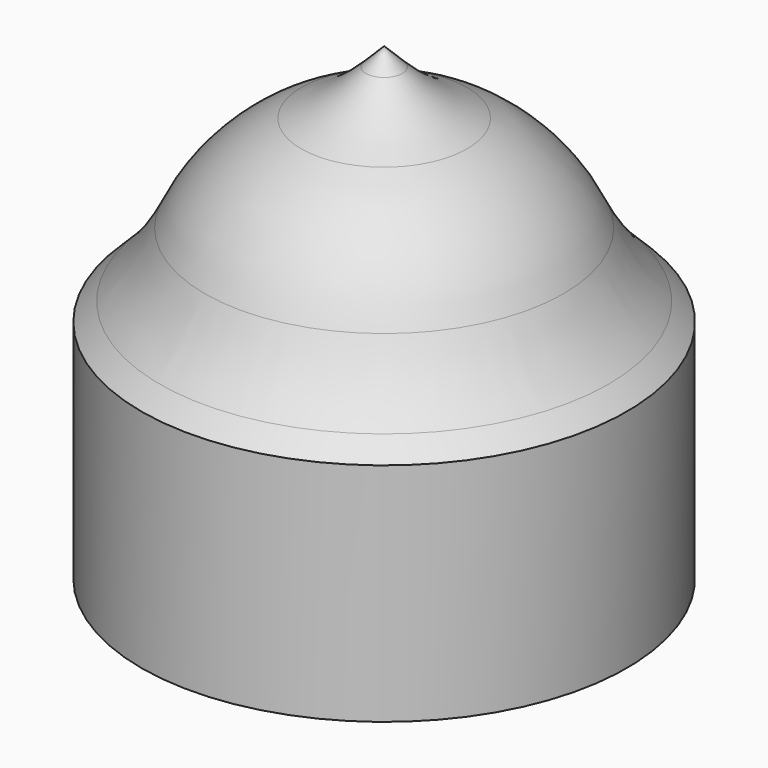
from build123d import *


with BuildPart() as f1:
    # F0 (on Front) → F1 (revolve)
    with BuildSketch(Plane.XZ):
        with BuildLine():
            Line((-21.5, 20), (-21.5, 0))
            Line((-21.5, 0), (0, 0))
            Line((0, 0), (0, 41.5))
            Line((0, 41.5), (-1.611806, 39.888194))
            ThreePointArc((-1.611806, 39.888194), (-4.305124, 37.631409), (-7.35184, 35.88082))
            ThreePointArc((-7.35184, 35.88082), (-12.374369, 32.374369), (-15.88082, 27.35184))
            ThreePointArc((-15.88082, 27.35184), (-17.631409, 24.305124), (-19.888194, 21.611806))
            Line((-19.888194, 21.611806), (-21.5, 20))
        make_face()
    revolve(axis=Axis((0, 0, 20.75), (0, 0, -1)))


solid = f1.part
